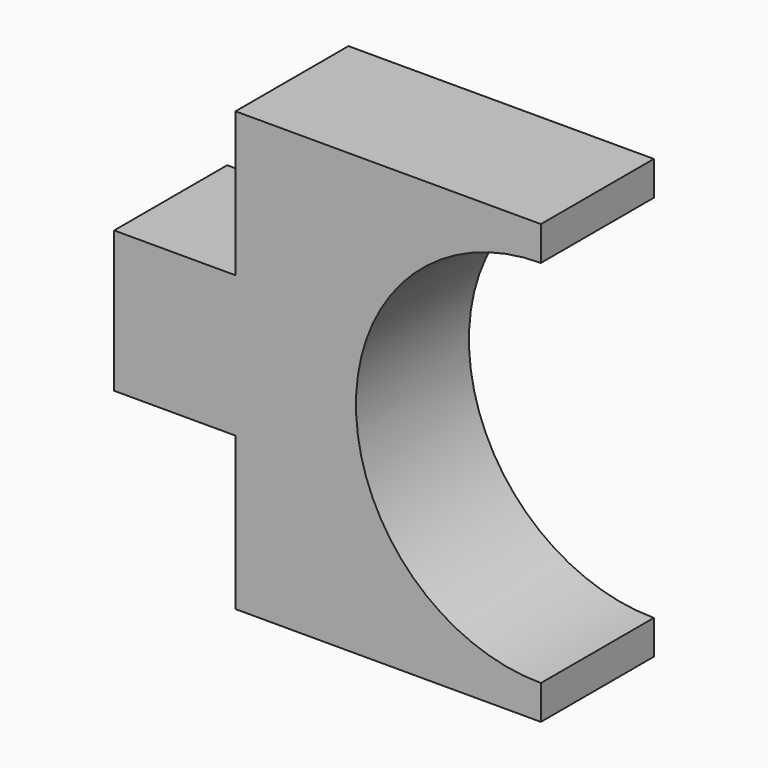
from build123d import *

# Parameters (mm, degrees)
F1_DEPTH = 40


with BuildPart() as f1:
    # F0 (on Front) → F1 (new body)
    with BuildSketch(Plane.XZ):
        with BuildLine():
            Line((50.954782, 53.575874), (-35.563734, 53.575874))
            Line((-35.563734, 53.575874), (-35.563734, 12.686984))
            Line((-35.563734, 12.686984), (-69.934104, 12.686984))
            Line((-69.934104, 12.686984), (-69.934104, -8.498203))
            Line((-69.934104, -8.498203), (-69.934104, -27.313016))
            Line((-69.934104, -27.313016), (-35.563734, -27.313016))
            Line((-35.563734, -27.313016), (-35.563734, -32.942646))
            Line((-35.563734, -32.942646), (-35.563734, -70.57228))
            Line((-35.563734, -70.57228), (50.954782, -70.57228))
            Line((50.954782, -70.57228), (50.954782, -60.878373))
            ThreePointArc((50.954782, -60.878373), (-1.425388, -8.498203), (50.954782, 43.881967))
            Line((50.954782, 43.881967), (50.954782, 53.575874))
        make_face()
    extrude(amount=F1_DEPTH)


solid = f1.part
